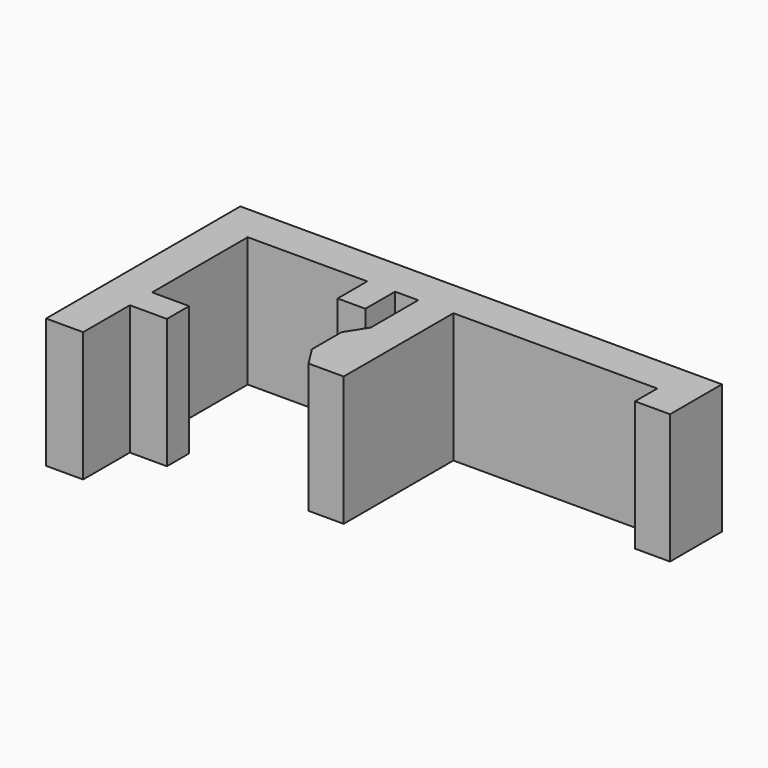
from build123d import *

# Parameters (mm, degrees)
F1_DEPTH = 7


with BuildPart() as f1:
    # F0 (on Top) → F1 (new body)
    with BuildSketch(Plane.XY):
        Polygon((-0.9, -7.4), (-0.9, 0), (-2.8, 0), (-2.8, -3.200004), (-2.8, -7.4), align=None)
        Polygon((-2.8, 0), (-0.9, 0), (10.1, 0), (10.1, -1.5), (11.988339, -1.5), (11.988339, 2), (0, 2), (-5.55, 2), (-5.55, 0), (-5.55, -2), (-4.05, -2), (-4.05, 0), align=None)
        Polygon((-2.8, -7.4), (-2.8, -3.200004), (-3.5, -4.300002), (-3.5, -6.300002), align=None)
        Polygon((-12, 0), (-5.55, 0), (-5.55, 2), (-14, 2), (-14, -6.45), (-12, -6.45), align=None)
        Polygon((-10, -6.45), (-12, -6.45), (-14, -6.45), (-14, -11.1), (-12, -11.1), (-12, -9.2), (-12, -7.95), (-10, -7.95), align=None)
    extrude(amount=F1_DEPTH)


solid = f1.part
